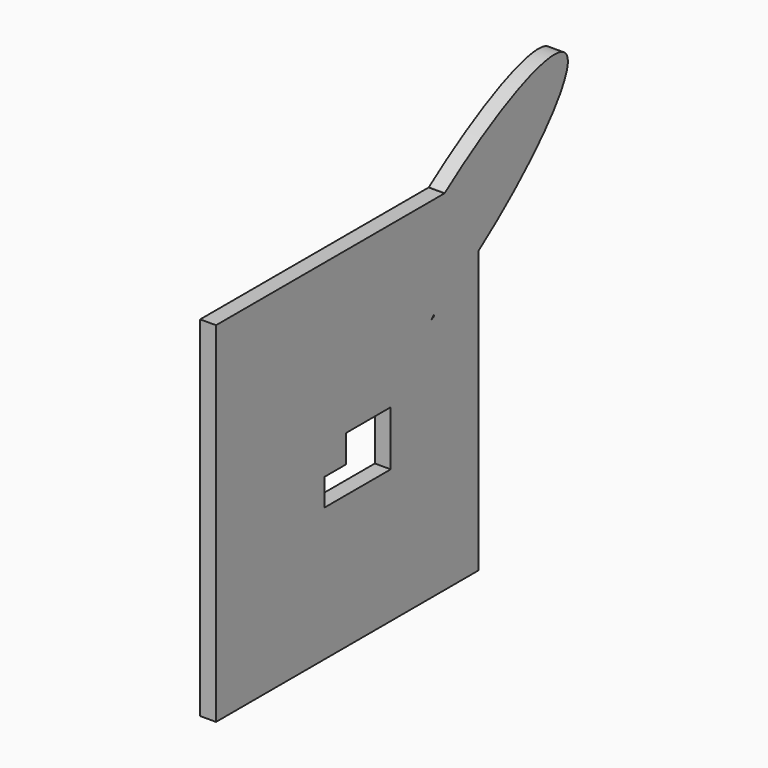
from build123d import *

# Parameters (mm, degrees)
F0_W     = 254.2222494147
F0_H     = 54.8806715578
F1_DEPTH = 25


with BuildPart() as f1:
    # F0 (on Right) → F1 (new body)
    with BuildSketch(Plane.YZ):
        with BuildLine():
            add(Edge.make_bspline(
                [(196.6613400619, 115.0987724343), (403.8167134526, 262.1085152488), (370.3907933131, 317.276106619), (336.9648731735, 372.4436979892), (131.2172873062, 223.1104814604)],
                knots=[1.528676571, 1.528676571, 1.528676571, 3.1205327757, 3.1205327757, 4.7123889804, 4.7123889804, 4.7123889804], degree=2, weights=[1, 0.6996219261, 1, 0.6996219261, 1]))
            add(Edge.make_bspline(
                [(131.2172873062, 223.1104814604), (130.7712521309, 222.786745621), (130.3255838684, 222.4625134569)],
                knots=[4.7123889804, 4.7123889804, 4.7123889804, 4.71681701, 4.71681701, 4.71681701], degree=2, weights=[1, 0.9999975491, 1]))
            Line((130.3255838684, 222.4625134569), (196.6613400619, 222.4625134569))
            Line((196.6613400619, 222.4625134569), (196.6613400619, 125.8834729076))
            Line((196.6613400619, 125.8834729076), (196.6613400619, 115.0987724343))
        make_face()
        with BuildLine():
            Line((196.6613400619, 222.4625134569), (130.3255838684, 222.4625134569))
            add(Edge.make_bspline(
                [(130.3255838684, 222.4625134569), (119.6790063978, 214.7169252168), (109.3031239246, 206.7339041199)],
                knots=[4.71681701, 4.71681701, 4.71681701, 4.8224999906, 4.8224999906, 4.8224999906], degree=2, weights=[1, 0.9986042133, 1]))
            Line((109.3031239246, 206.7339041199), (109.3031239246, 125.8834729076))
            Line((109.3031239246, 125.8834729076), (196.6613400619, 125.8834729076))
            Line((196.6613400619, 125.8834729076), (196.6613400619, 222.4625134569))
        make_face()
        with BuildLine():
            add(Edge.make_bspline(
                [(130.3255838684, 222.4625134569), (119.6790063978, 214.7169252168), (109.3031239246, 206.7339041199)],
                knots=[4.71681701, 4.71681701, 4.71681701, 4.8224999906, 4.8224999906, 4.8224999906], degree=2, weights=[1, 0.9986042133, 1]))
            Line((130.3255838684, 222.4625134569), (109.3031239246, 222.4625134569))
            Line((109.3031239246, 222.4625134569), (109.3031239246, 206.7339041199))
        make_face()
        with BuildLine():
            Line((196.6613400619, -327.5374865431), (196.6613400619, 115.0987724343))
            add(Edge.make_bspline(
                [(108.9450368431, 59.9770658256), (152.0588498328, 83.4461992466), (196.6613400619, 115.0987724343)],
                knots=[1.0957816662, 1.0957816662, 1.0957816662, 1.528676571, 1.528676571, 1.528676571], degree=2, weights=[1, 0.9766665606, 1]))
            add(Edge.make_bspline(
                [(104.329622965, 57.4869589695), (106.6287383203, 58.716181777), (108.9450368431, 59.9770658256)],
                knots=[1.0721552604, 1.0721552604, 1.0721552604, 1.0957816662, 1.0957816662, 1.0957816662], degree=2, weights=[1, 0.9999302249, 1]))
            add(Edge.make_bspline(
                [(109.3031239246, 206.7339041199), (-515.1871023397, -273.7378691414), (104.329622965, 57.4869589695)],
                knots=[4.8224999906, 4.8224999906, 4.8224999906, 7.3553405676, 7.3553405676, 7.3553405676], degree=2, weights=[1, 0.2996979528, 1]))
            Line((109.3031239246, 206.7339041199), (109.3031239246, 222.4625134569))
            Line((109.3031239246, 222.4625134569), (-319.5468781019, 222.4625134569))
            Line((-319.5468781019, 222.4625134569), (-319.5468781019, -227.4800993663))
            Line((-319.5468781019, -227.4800993663), (-65.3246286872, -227.4800993663))
            Line((-65.3246286872, -227.4800993663), (-65.3246286872, -282.3607709241))
            Line((-65.3246286872, -282.3607709241), (-319.5468781019, -282.3607709241))
            Line((-319.5468781019, -282.3607709241), (-319.5468781019, -327.5374865431))
            Line((-319.5468781019, -327.5374865431), (196.6613400619, -327.5374865431))
        make_face()
        Polygon((24.3525329079, -30.9708680097), (24.3525329079, -117.1511133808), (-63.795016312, -117.1511133808), (-106.3860497827, -117.1511133808), (-106.3860497827, -74.5504194263), (-63.795016312, -74.5504194263), (-63.795016312, -30.9708680097), align=None, mode=Mode.SUBTRACT)
        with BuildLine():
            add(Edge.make_bspline(
                [(108.9450368431, 59.9770658256), (152.0588498328, 83.4461992466), (196.6613400619, 115.0987724343)],
                knots=[1.0957816662, 1.0957816662, 1.0957816662, 1.528676571, 1.528676571, 1.528676571], degree=2, weights=[1, 0.9766665606, 1]))
            Line((196.6613400619, 115.0987724343), (196.6613400619, 125.8834729076))
            Line((196.6613400619, 125.8834729076), (109.3031239246, 125.8834729076))
            Line((109.3031239246, 125.8834729076), (109.3031239246, 206.7339041199))
            add(Edge.make_bspline(
                [(109.3031239246, 206.7339041199), (-515.1871023397, -273.7378691414), (104.329622965, 57.4869589695)],
                knots=[4.8224999906, 4.8224999906, 4.8224999906, 7.3553405676, 7.3553405676, 7.3553405676], degree=2, weights=[1, 0.2996979528, 1]))
            Line((104.329622965, 57.4869589695), (109.6091419458, 62.8942549229))
            Line((109.6091419458, 62.8942549229), (108.9450368431, 59.9770658256))
        make_face()
        with Locations((-192.4357533945, -254.9204351452)):
            Rectangle(F0_W, F0_H)
    extrude(amount=F1_DEPTH)


solid = f1.part
